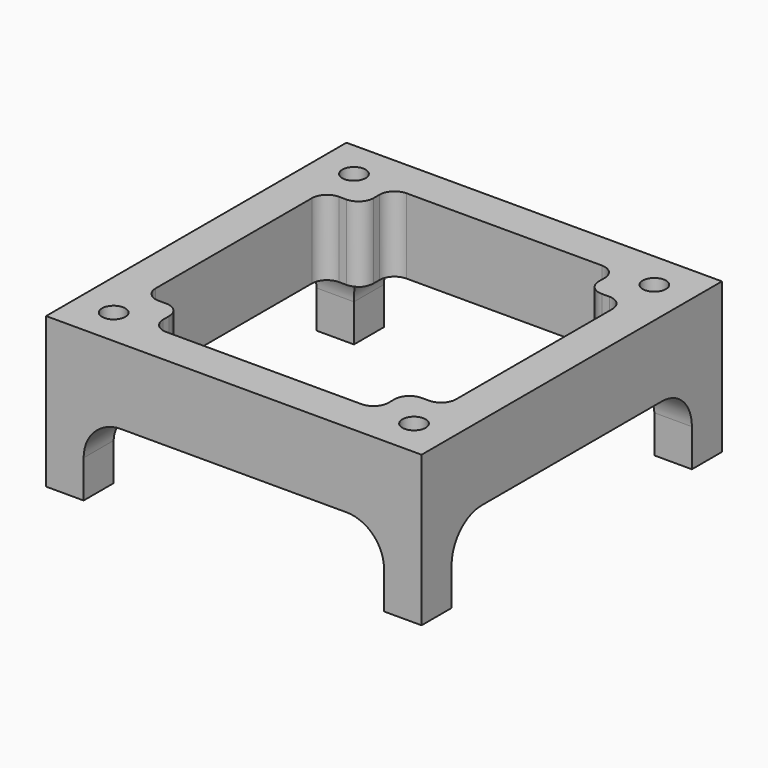
from build123d import *

# Parameters (mm, degrees)
SKETCH075_W             = 50
SKETCH075_H             = 50
PAD013_DEPTH            = 20
POCKET063_DEPTH         = 20.001
POCKET064_DEPTH         = 50.001
POCKET065_DEPTH         = 50.001
SKETCH079_R             = 1.55
POCKET066_DEPTH         = 5
SKETCH080_R             = 1.55
POCKET067_DEPTH         = 3
BODY014_PLACEMENT_ANGLE = 180


with BuildPart() as part:
    # Sketch075 → Pad013 (new body)
    with BuildSketch(Plane.XY):
        Rectangle(SKETCH075_W, SKETCH075_H)
    extrude(amount=PAD013_DEPTH)

    # Sketch076 (on Face6 of Pad013) → Pocket063 (cut, through all)
    with BuildSketch(Plane.XY.offset(20)):
        with BuildLine():
            Line((-18, 15), (-17, 15))
            ThreePointArc((-17, 15), (-15.585786, 15.585786), (-15, 17))
            Line((-15, 17), (-15, 18))
            ThreePointArc((-13, 20), (-14.414214, 19.414214), (-15, 18))
            Line((-13, 20), (13, 20))
            ThreePointArc((15, 18), (14.414214, 19.414214), (13, 20))
            Line((15, 18), (15, 17))
            ThreePointArc((15, 17), (15.585786, 15.585786), (17, 15))
            Line((17, 15), (18, 15))
            ThreePointArc((20, 13), (19.414214, 14.414214), (18, 15))
            Line((20, 13), (20, -13))
            ThreePointArc((18, -15), (19.414214, -14.414214), (20, -13))
            Line((18, -15), (17, -15))
            ThreePointArc((17, -15), (15.585786, -15.585786), (15, -17))
            Line((15, -17), (15, -18))
            ThreePointArc((13, -20), (14.414214, -19.414214), (15, -18))
            Line((13, -20), (-13, -20))
            ThreePointArc((-15, -18), (-14.414214, -19.414214), (-13, -20))
            Line((-15, -18), (-15, -17))
            ThreePointArc((-15, -17), (-15.585786, -15.585786), (-17, -15))
            Line((-17, -15), (-18, -15))
            ThreePointArc((-20, -13), (-19.414214, -14.414214), (-18, -15))
            Line((-20, -13), (-20, 13))
            ThreePointArc((-18, 15), (-19.414214, 14.414214), (-20, 13))
        make_face()
    extrude(amount=-POCKET063_DEPTH, mode=Mode.SUBTRACT)

    # Sketch077 (on Face3 of Pocket063) → Pocket064 (cut, through all)
    with BuildSketch(Plane.YZ.offset(25)):
        with BuildLine():
            Line((-15, 10), (15, 10))
            ThreePointArc((20, 5), (18.535534, 8.535534), (15, 10))
            Line((20, 5), (20, 0))
            Line((20, 0), (-20, 0))
            Line((-20, 0), (-20, 5))
            ThreePointArc((-15, 10), (-18.535534, 8.535534), (-20, 5))
        make_face()
    extrude(amount=-POCKET064_DEPTH, mode=Mode.SUBTRACT)

    # Sketch078 (on Face6 of Pocket063) → Pocket065 (cut, through all)
    with BuildSketch(Plane.XZ.offset(25)):
        with BuildLine():
            Line((-15, 10), (15, 10))
            ThreePointArc((20, 5), (18.535534, 8.535534), (15, 10))
            Line((20, 5), (20, 0))
            Line((20, 0), (-20, 0))
            Line((-20, 0), (-20, 5))
            ThreePointArc((-15, 10), (-18.535534, 8.535534), (-20, 5))
        make_face()
    extrude(amount=-POCKET065_DEPTH, mode=Mode.SUBTRACT)

    # Sketch079 → Pocket066 (cut)
    with BuildSketch(Plane.XY.offset(20)):
        with Locations((-20, 20)):
            Circle(SKETCH079_R)
        with Locations((20, 20)):
            Circle(SKETCH079_R)
        with Locations((20, -20)):
            Circle(SKETCH079_R)
        with Locations((-20, -20)):
            Circle(SKETCH079_R)
    extrude(amount=-POCKET066_DEPTH, mode=Mode.SUBTRACT)

    # Sketch080 (on Face27 of Pocket066) → Pocket067 (cut)
    with BuildSketch(Plane.XZ.offset(25)):
        with Locations((-20, 14)):
            Circle(SKETCH080_R)
        with Locations((20, 14)):
            Circle(SKETCH080_R)
    extrude(amount=-POCKET067_DEPTH, mode=Mode.SUBTRACT)


with BuildPart() as part_1:
    # Body014 placement: moved
    add(part.part.moved(Location((85, 145, 0))).rotate(Axis((85, 145, 0), (0, 0, 1)), BODY014_PLACEMENT_ANGLE))


solid = part_1.part
